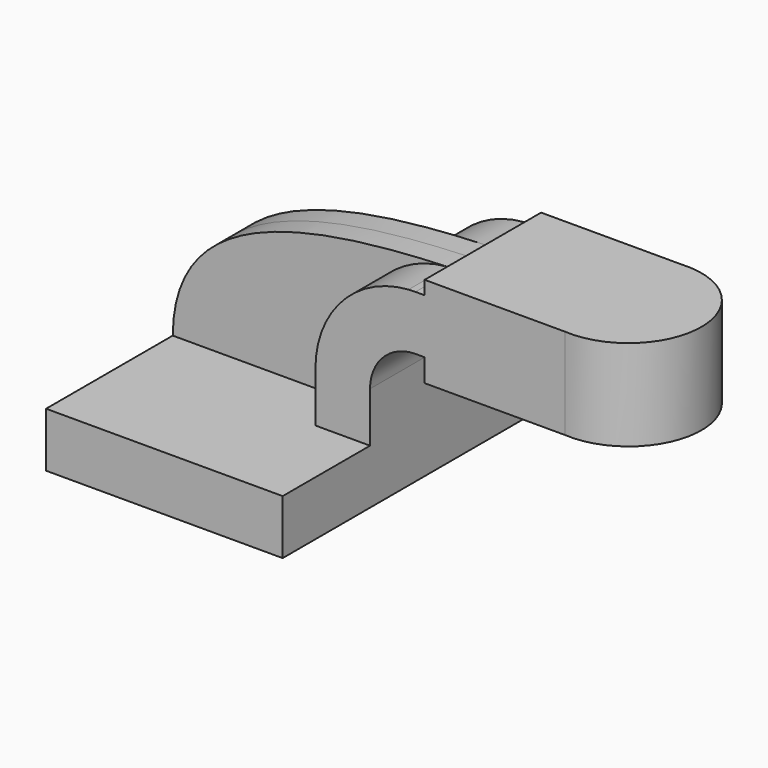
from build123d import *

# Parameters (mm, degrees)
F1_DEPTH = 63.5
F0_W     = 25.3345113873
F0_H     = 19.05
F0_H_2   = 7.9502
F0_H_3   = 4.7498
F2_DEPTH = 25.4
F3_DEPTH = 8.255


with BuildPart() as f1:
    # F0 (on Front) → F1 (new body, symmetric)
    with BuildSketch(Plane.XZ):
        Polygon((22.225, 9.525), (-41.275, 9.525), (-41.275, -9.525), (41.275, -9.525), (41.275, 9.525), align=None)
    extrude(amount=F1_DEPTH, both=True)

    # F0 (on Front) → F2 (join, symmetric)
    with BuildSketch(Plane.XZ):
        with BuildLine():
            Line((22.225, 27.0002), (22.225, 9.525))
            Line((22.225, 9.525), (41.275, 9.525))
            Line((41.275, 9.525), (41.275, 27.0002))
            ThreePointArc((41.275, 27.0002), (45.9246798487, 38.2255201513), (57.15, 42.8752))
            Line((57.15, 42.8752), (60.325, 42.8752))
            Line((60.325, 42.8752), (60.325, 61.9252))
            Line((60.325, 61.9252), (57.15, 61.9252))
            add(Edge.make_bspline(
                [(54.7094854303, 61.8398256242), (55.5196441787, 61.8701239826), (56.3331729653, 61.8985622867), (57.15, 61.9252)],
                knots=[109.9108367824, 109.9108367824, 109.9108367824, 109.9108367824, 111.5045361635, 111.5045361635, 111.5045361635, 111.5045361635], degree=3))
            ThreePointArc((54.7094854303, 61.8398256242), (31.6060124849, 50.8174275218), (22.225, 27.0002))
        make_face()
        with Locations((72.9922556937, 52.4002)):
            Rectangle(F0_W, F0_H)
        Polygon((85.6595113873, 66.675), (85.6595113873, 61.9252), (85.6595113873, 42.8752), (85.6595113873, 34.925), (111.125, 34.925), (111.125, 66.675), align=None)
        with Locations((72.9922556937, 38.9001)):
            Rectangle(F0_W, F0_H_2)
        with Locations((72.9922556937, 64.3001)):
            Rectangle(F0_W, F0_H_3)
    extrude(amount=F2_DEPTH, both=True)

    # F0 (on Front) → F3 (join, symmetric)
    with BuildSketch(Plane.XZ):
        with BuildLine():
            add(Edge.make_bspline(
                [(-41.275, 9.525), (-41.0082168827, 48.8137659642), (-1.1638034837, 59.7502735026), (54.7094854303, 61.8398256242)],
                knots=[0, 0, 0, 0, 109.9108367824, 109.9108367824, 109.9108367824, 109.9108367824], degree=3))
            Line((-41.275, 9.525), (22.225, 9.525))
            Line((22.225, 9.525), (22.225, 27.0002))
            ThreePointArc((22.225, 27.0002), (31.6060124849, 50.8174275218), (54.7094854303, 61.8398256242))
        make_face()
    extrude(amount=F3_DEPTH, both=True)

    # F0 (on Front) → F4 (revolve)
    with BuildSketch(Plane.XZ):
        Polygon((85.6595113873, 66.675), (85.6595113873, 61.9252), (85.6595113873, 42.8752), (85.6595113873, 34.925), (111.125, 34.925), (111.125, 66.675), align=None)
    revolve(axis=Axis((111.125, 0, 50.8), (0, 0, -1)))


solid = f1.part
